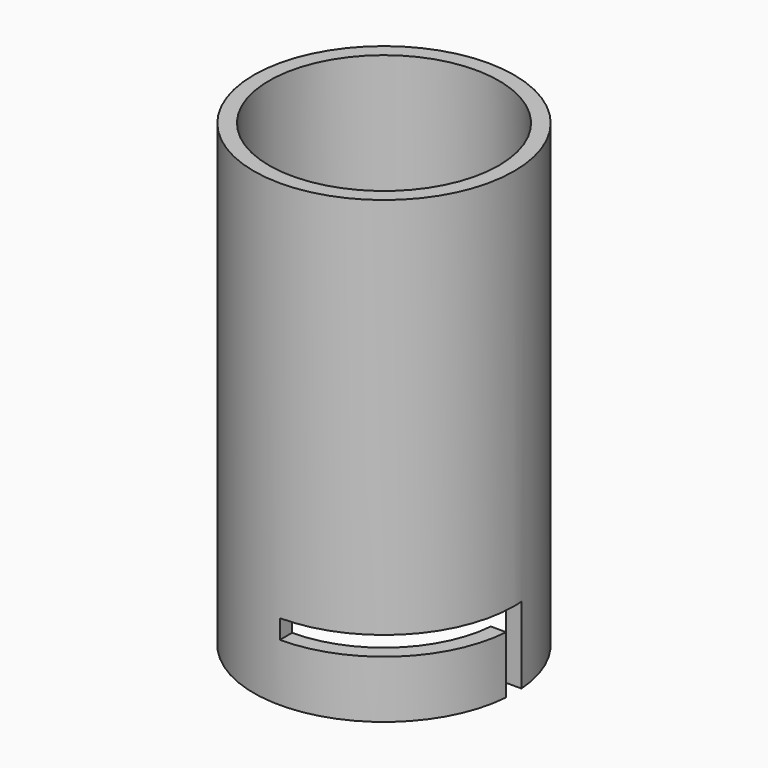
from build123d import *

# Parameters (mm, degrees)
F0_R          = 17
F1_DEPTH      = 60
F2_R          = 15
F3_DEPTH      = 40
F4_R          = 15
F5_DEPTH      = 15
F6_W          = 2.5
F6_H          = 10
F7_DEPTH      = 18
F7_DEPTH_BACK = 18
F8_W          = 17
F8_H          = 2.5
F10_ANGLE     = 90
F11_W         = 17
F11_H         = 2.5
F12_ANGLE     = 90


with BuildPart() as f1:
    # F0 (on Top) → F1 (new body)
    with BuildSketch(Plane.XY):
        Circle(F0_R)
    extrude(amount=F1_DEPTH)

    # F2 (on face) → F3 (cut)
    with BuildSketch(Plane.XY.offset(60)):
        Circle(F2_R)
    extrude(amount=-F3_DEPTH, mode=Mode.SUBTRACT)

    # F4 (on face) → F5 (cut)
    with BuildSketch(Plane(origin=(0, 0, 0), x_dir=(1, 0, 0), z_dir=(0, 0, -1))):
        Circle(F4_R)
    extrude(amount=-F5_DEPTH, mode=Mode.SUBTRACT)

    # F6 (on Right) → F7 (cut, two sides)
    with BuildSketch(Plane.YZ) as f7_sk:
        with Locations((0, 5)):
            Rectangle(F6_W, F6_H)
    extrude(amount=F7_DEPTH, mode=Mode.SUBTRACT)
    extrude(f7_sk.sketch, amount=-F7_DEPTH_BACK, mode=Mode.SUBTRACT)

    # F8 (on Front) → F10 (revolve, cut)
    with BuildSketch(Plane.XZ):
        with Locations((-8.5, 8.75)):
            Rectangle(F8_W, F8_H)
    revolve(axis=Axis((0, 0, 15.6492851675), (0, 0, -1)), revolution_arc=F10_ANGLE, mode=Mode.SUBTRACT)

    # F11 (on Front) → F12 (revolve, cut)
    with BuildSketch(Plane.XZ):
        with Locations((8.5, 8.75)):
            Rectangle(F11_W, F11_H)
    revolve(axis=Axis((0, 0, 6.5289476479), (0, 0, -1)), revolution_arc=F12_ANGLE, mode=Mode.SUBTRACT)

    # F13 (on Front) → F14 (revolve, cut)
    with BuildSketch(Plane.XZ):
        with BuildLine():
            Line((-2.4, 15), (0, 15))
            Line((0, 15), (0, 20))
            Line((0, 20), (-2.4, 20))
            Line((-2.4, 20), (-2.4, 18.6))
            Line((-2.4, 18.6), (-3.5, 18.6))
            ThreePointArc((-3.5, 18.6), (-4.6, 17.5), (-3.5, 16.4))
            Line((-3.5, 16.4), (-2.4, 16.4))
            Line((-2.4, 16.4), (-2.4, 15))
        make_face()
    revolve(axis=Axis((0, 0, 17.5), (0, 0, 1)), mode=Mode.SUBTRACT)


solid = f1.part
